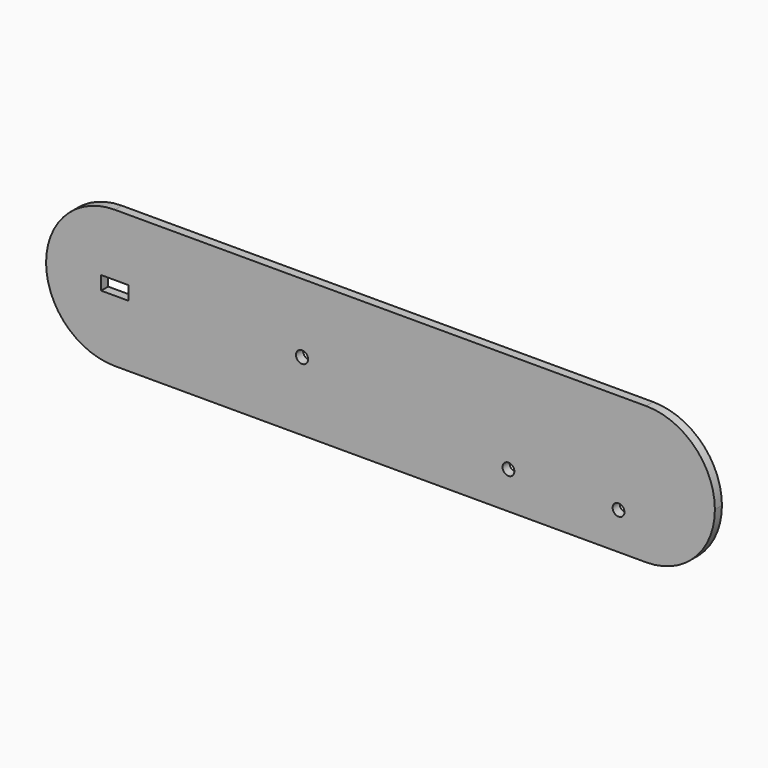
from build123d import *

# Parameters (mm, degrees)
F1_DEPTH = 3.2
F2_R     = 2.2
F2_R_2   = 2.15
F3_DEPTH = 12.5


with BuildPart() as f1:
    # F0 (on Front) → F1 (new body)
    with BuildSketch(Plane.XZ):
        with BuildLine():
            ThreePointArc((-68, -25), (-50.3223304703, -17.6776695297), (-43, 0))
            ThreePointArc((-43, 0), (-50.3223304703, 17.6776695297), (-68, 25))
            Line((-68, 25), (-68, -25))
        make_face()
        with BuildLine():
            ThreePointArc((-68, 25), (-50.3223304703, 17.6776695297), (-43, 0))
            ThreePointArc((-43, 0), (-50.3223304703, -17.6776695297), (-68, -25))
            Line((-68, -25), (125, -25))
            ThreePointArc((125, -25), (100, 0), (125, 25))
            Line((125, 25), (-68, 25))
        make_face()
        with BuildLine():
            Line((-68, -25), (-68, 25))
            ThreePointArc((-68, 25), (-93, 0), (-68, -25))
        make_face()
        with BuildLine():
            Line((125, -25), (125, 25))
            ThreePointArc((125, 25), (100, 0), (125, -25))
        make_face()
        with BuildLine():
            ThreePointArc((150, 0), (142.6776695297, 17.6776695297), (125, 25))
            Line((125, 25), (125, -25))
            ThreePointArc((125, -25), (142.6776695297, -17.6776695297), (150, 0))
        make_face()
    extrude(amount=F1_DEPTH)

    # F2 (on Front) → F3 (cut, symmetric)
    with BuildSketch(Plane.XZ):
        Circle(F2_R)
        with BuildLine():
            ThreePointArc((-68, -2.5), (-66.232233047, -1.767766953), (-65.5, 0))
            ThreePointArc((-65.5, 0), (-66.232233047, 1.767766953), (-68, 2.5))
            ThreePointArc((-68, 2.5), (-70.5, 0), (-68, -2.5))
        make_face()
        with BuildLine():
            ThreePointArc((-68, 2.5), (-66.232233047, 1.767766953), (-65.5, 0))
            ThreePointArc((-65.5, 0), (-66.232233047, -1.767766953), (-68, -2.5))
            Line((-68, -2.5), (-63, -2.5))
            Line((-63, -2.5), (-63, 2.5))
            Line((-63, 2.5), (-68, 2.5))
        make_face()
        with BuildLine():
            ThreePointArc((-68, -2.5), (-70.5, 0), (-68, 2.5))
            Line((-68, 2.5), (-73, 2.5))
            Line((-73, 2.5), (-73, -2.5))
            Line((-73, -2.5), (-68, -2.5))
        make_face()
        with Locations((75, -11.5)):
            Circle(F2_R_2)
        with Locations((115, -11.5)):
            Circle(F2_R_2)
    extrude(amount=F3_DEPTH, both=True, mode=Mode.SUBTRACT)


solid = f1.part
